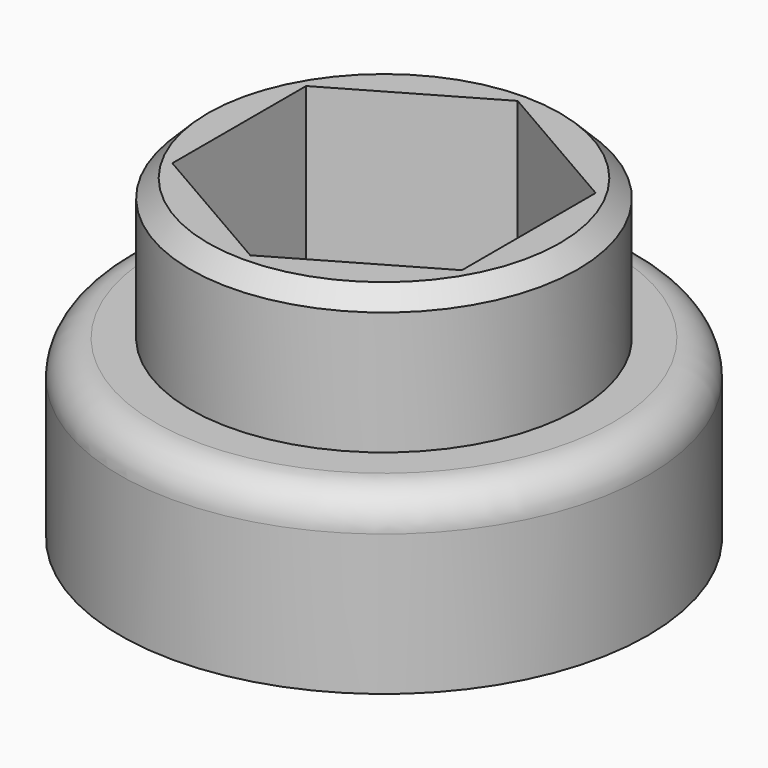
from build123d import *

# Parameters (mm, degrees)
SKETCH001_R     = 3
POCKET_DEPTH    = 9.001
POCKET001_DEPTH = 5
FILLET_R        = 1
CHAMFER_SIZE    = 0.5


with BuildPart() as part:
    # Sketch → Revolution (revolve)
    with BuildSketch(Plane.XZ):
        Polygon((0, 0), (0, 9), (5.5, 9), (5.5, 5), (7.5, 5), (7.5, 0), align=None)
    revolve(axis=Axis((0, 0, 0), (0, 0, 1)))

    # Sketch001 (on Face1 of Revolution) → Pocket (cut, through all)
    with BuildSketch(Plane(origin=(0, 0, 9), x_dir=(-1, 0, 0), z_dir=(0, 0, 1))):
        Circle(SKETCH001_R)
    extrude(amount=-POCKET_DEPTH, mode=Mode.SUBTRACT)

    # Sketch002 (on Face1 of Pocket) → Pocket001 (cut)
    with BuildSketch(Plane(origin=(0, 0, 9), x_dir=(-1, 0, 0), z_dir=(0, 0, 1))):
        Polygon((4.113621, 2.375), (0, 4.75), (-4.113621, 2.375), (-4.113621, -2.375), (0, -4.75), (4.113621, -2.375), align=None)
    extrude(amount=-POCKET001_DEPTH, mode=Mode.SUBTRACT)

    # Fillet
    fillet_edges = [part.edges().sort_by_distance(p)[0] for p in [
        (-7.5, 0, 5),
    ]]
    fillet(fillet_edges, radius=FILLET_R)

    # Chamfer
    chamfer_edges = [part.edges().sort_by_distance(p)[0] for p in [
        (-5.5, 0, 9),
    ]]
    chamfer(chamfer_edges, length=CHAMFER_SIZE)


solid = part.part
